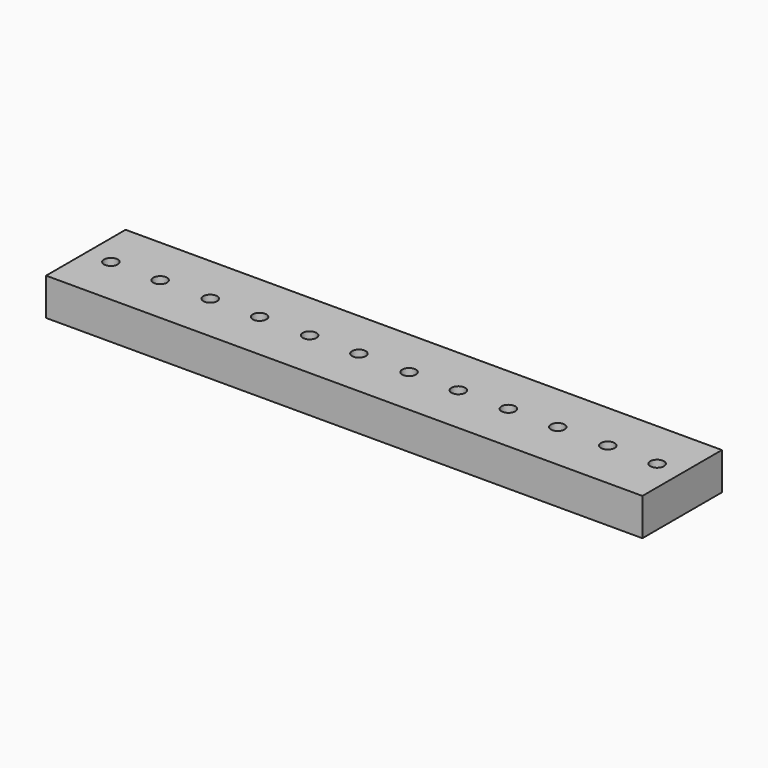
from build123d import *

# Parameters (mm, degrees)
F0_W     = 152.4
F0_H     = 25.4
F0_R     = 1.7526
F1_DEPTH = 9.525


with BuildPart() as f1:
    # F0 (on Top) → F1 (new body)
    with BuildSketch(Plane.XY):
        with Locations((76.2, 12.7)):
            Rectangle(F0_W, F0_H)
        with Locations((6.4008, 12.7)):
            Circle(F0_R, mode=Mode.SUBTRACT)
        with Locations((18.9992, 12.7)):
            Circle(F0_R, mode=Mode.SUBTRACT)
        with Locations((31.8008, 12.7)):
            Circle(F0_R, mode=Mode.SUBTRACT)
        with Locations((44.3992, 12.7)):
            Circle(F0_R, mode=Mode.SUBTRACT)
        with Locations((57.2008, 12.7)):
            Circle(F0_R, mode=Mode.SUBTRACT)
        with Locations((69.7992, 12.7)):
            Circle(F0_R, mode=Mode.SUBTRACT)
        with Locations((82.6008, 12.7)):
            Circle(F0_R, mode=Mode.SUBTRACT)
        with Locations((95.1992, 12.7)):
            Circle(F0_R, mode=Mode.SUBTRACT)
        with Locations((108.0008, 12.7)):
            Circle(F0_R, mode=Mode.SUBTRACT)
        with Locations((120.5992, 12.7)):
            Circle(F0_R, mode=Mode.SUBTRACT)
        with Locations((133.4008, 12.7)):
            Circle(F0_R, mode=Mode.SUBTRACT)
        with Locations((145.9992, 12.7)):
            Circle(F0_R, mode=Mode.SUBTRACT)
    extrude(amount=F1_DEPTH)


solid = f1.part
